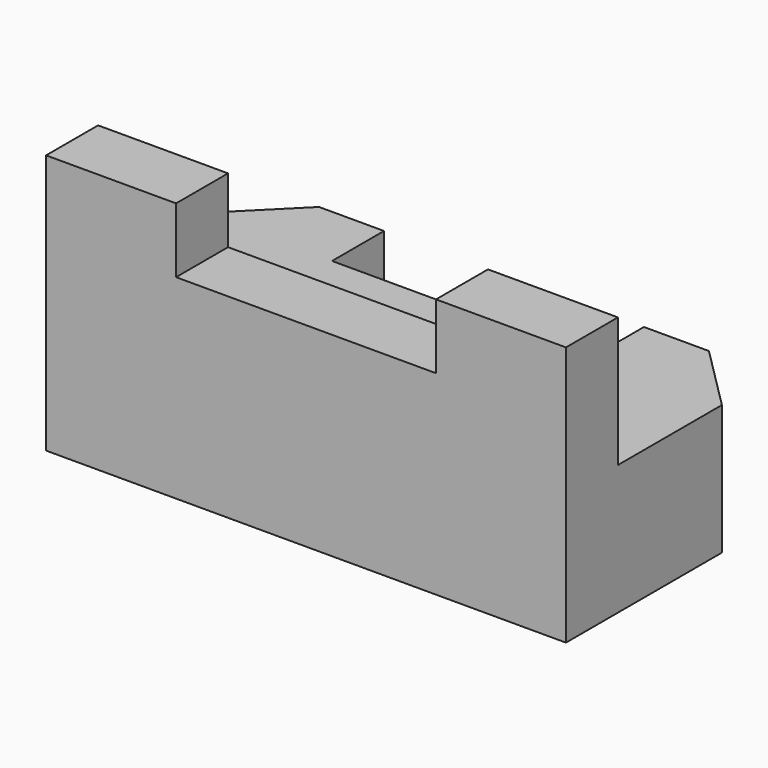
from build123d import *

# Parameters (mm, degrees)
F0_W      = 76.2
F0_H      = 50.8
F1_DEPTH  = 203.2
F2_W      = 203.2
F2_H      = 25.4
F3_DEPTH  = 50.8
F4_W      = 101.6
F4_H      = 25.4
F5_DEPTH  = 25.4
F6_W      = 25.4
F6_H      = 50.8
F7_DEPTH  = 25.4
F8_W      = 25.4
F8_H      = 50.8
F9_DEPTH  = 25.4
F11_DEPTH = 50.8
F13_DEPTH = 50.8


with BuildPart() as f1:
    # F0 (on Right) → F1 (new body)
    with BuildSketch(Plane.YZ):
        with Locations((-38.1, 25.4)):
            Rectangle(F0_W, F0_H)
    extrude(amount=F1_DEPTH)

    # F2 (on face) → F3 (join)
    with BuildSketch(Plane.XY.offset(50.8)):
        with Locations((101.6, -63.5)):
            Rectangle(F2_W, F2_H)
    extrude(amount=F3_DEPTH)

    # F4 (on face) → F5 (cut)
    with BuildSketch(Plane(origin=(0, -50.8, 0), x_dir=(-1, 0, 0), z_dir=(0, 1, 0))):
        with Locations((-101.6, 88.9)):
            Rectangle(F4_W, F4_H)
    extrude(amount=-F5_DEPTH, mode=Mode.SUBTRACT)

    # F6 (on face) → F7 (join)
    with BuildSketch(Plane(origin=(0, 0, 0), x_dir=(-1, 0, 0), z_dir=(0, 1, 0))):
        with Locations((-165.1, 25.4)):
            Rectangle(F6_W, F6_H)
    extrude(amount=F7_DEPTH)

    # F8 (on face) → F9 (join)
    with BuildSketch(Plane(origin=(0, 0, 0), x_dir=(-1, 0, 0), z_dir=(0, 1, 0))):
        with Locations((-38.1, 25.4)):
            Rectangle(F8_W, F8_H)
    extrude(amount=F9_DEPTH)

    # F10 (on face) → F11 (join)
    with BuildSketch(Plane(origin=(0, 0, 0), x_dir=(1, 0, 0), z_dir=(0, 0, -1))):
        Polygon((177.8, 0), (177.8, -25.4), (203.2, 0), align=None)
    extrude(amount=-F11_DEPTH)

    # F12 (on face) → F13 (join)
    with BuildSketch(Plane(origin=(0, 0, 0), x_dir=(1, 0, 0), z_dir=(0, 0, -1))):
        Polygon((0, 0), (25.4, -25.4), (25.4, 0), align=None)
    extrude(amount=-F13_DEPTH)


solid = f1.part
